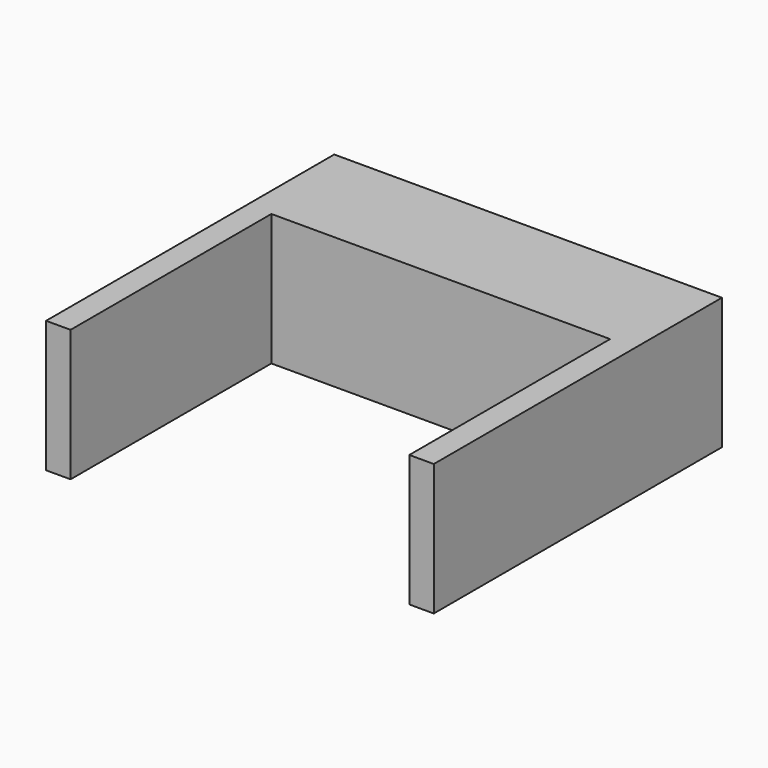
from build123d import *

# Parameters (mm, degrees)
F0_W     = 1206.5
F0_H     = 409.575
F1_DEPTH = 339.725
F2_W     = 76.2
F2_H     = 409.575
F3_DEPTH = 781.05


with BuildPart() as f1:
    # F0 (on Front) → F1 (new body)
    with BuildSketch(Plane.XZ):
        with Locations((-603.25, 103.796991)):
            Rectangle(F0_W, F0_H)
    extrude(amount=F1_DEPTH)

    # F2 (on face) → F3 (join)
    with BuildSketch(Plane.XZ.offset(339.725)):
        with Locations((-1168.4, 103.796991)):
            Rectangle(F2_W, F2_H)
        with Locations((-38.1, 103.796991)):
            Rectangle(F2_W, F2_H)
    extrude(amount=F3_DEPTH)


solid = f1.part
